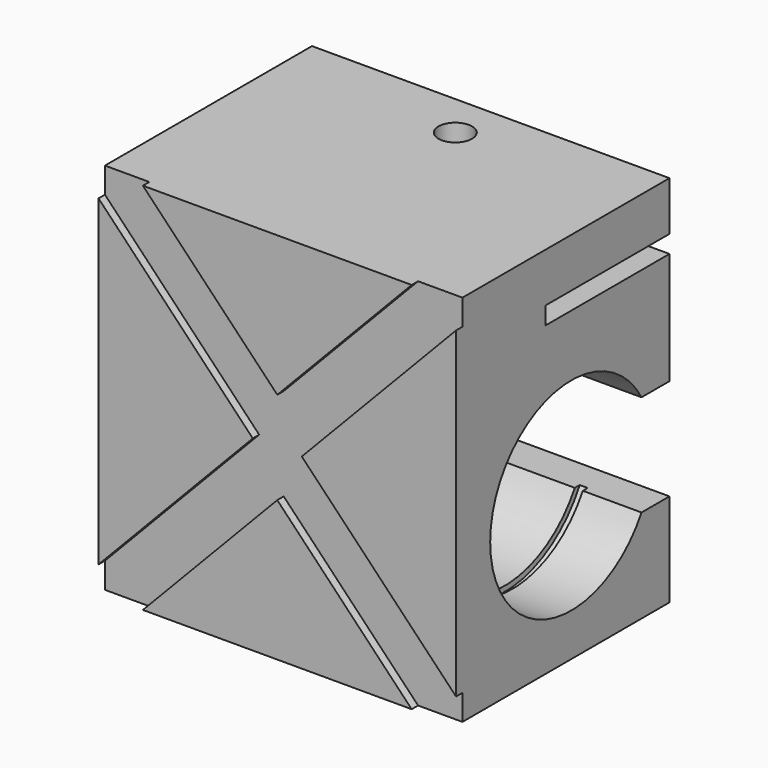
from build123d import *

# Parameters (mm, degrees)
F0_W      = 67
F0_H      = 50
F1_DEPTH  = 70
F3_DEPTH  = 1.5
F4_W      = 29
F4_H      = 3.3
F5_DEPTH  = 67.001
F6_R      = 3.15
F7_DEPTH  = 9.2
F9_R      = 20
F10_DEPTH = 1.5
F12_R     = 20
F13_DEPTH = 1.5


with BuildPart() as f1:
    # F0 (on Top) → F1 (new body)
    with BuildSketch(Plane.XY):
        with Locations((33.5, 25)):
            Rectangle(F0_W, F0_H)
    extrude(amount=F1_DEPTH)

    # F2 (on face) → F3 (cut)
    with BuildSketch(Plane.XZ):
        Polygon((8.3138438763, 70), (0, 70), (0, 65.2), (28.9057142857, 35), (0, 4.8), (0, 0), (8.3138438763, 0), (33.5, 26.3138944576), (58.6861561237, 0), (67, 0), (67, 4.8), (38.0942857143, 35), (67, 65.2), (67, 70), (58.6861561237, 70), (33.5, 43.6861055424), align=None)
    extrude(amount=-F3_DEPTH, mode=Mode.SUBTRACT)

    # F4 (on face) → F5 (cut, through all)
    with BuildSketch(Plane.YZ.offset(67)):
        with BuildLine():
            Line((50, 36.5), (43.4544826719, 36.5))
            ThreePointArc((43.4544826719, 36.5), (8, 27), (43.4544826719, 17.5))
            Line((43.4544826719, 17.5), (50, 17.5))
            Line((50, 17.5), (50, 36.5))
        make_face()
        with Locations((35.5, 59.15)):
            Rectangle(F4_W, F4_H)
    extrude(amount=-F5_DEPTH, mode=Mode.SUBTRACT)

    # F6 (on face) → F7 (cut, through all)
    with BuildSketch(Plane.XY.offset(70)):
        with Locations((33.5, 41.7)):
            Circle(F6_R)
    extrude(amount=-F7_DEPTH, mode=Mode.SUBTRACT)

    # F9 (on offset) → F10 (cut)
    with BuildSketch(Plane.YZ.offset(54.5)):
        with Locations((27, 27)):
            Circle(F9_R)
    extrude(amount=F10_DEPTH, mode=Mode.SUBTRACT)

    # F12 (on offset) → F13 (cut)
    with BuildSketch(Plane(origin=(12.5, 0, 0), x_dir=(0, -1, 0), z_dir=(-1, 0, 0))):
        with Locations((-27, 27)):
            Circle(F12_R)
    extrude(amount=F13_DEPTH, mode=Mode.SUBTRACT)


solid = f1.part
